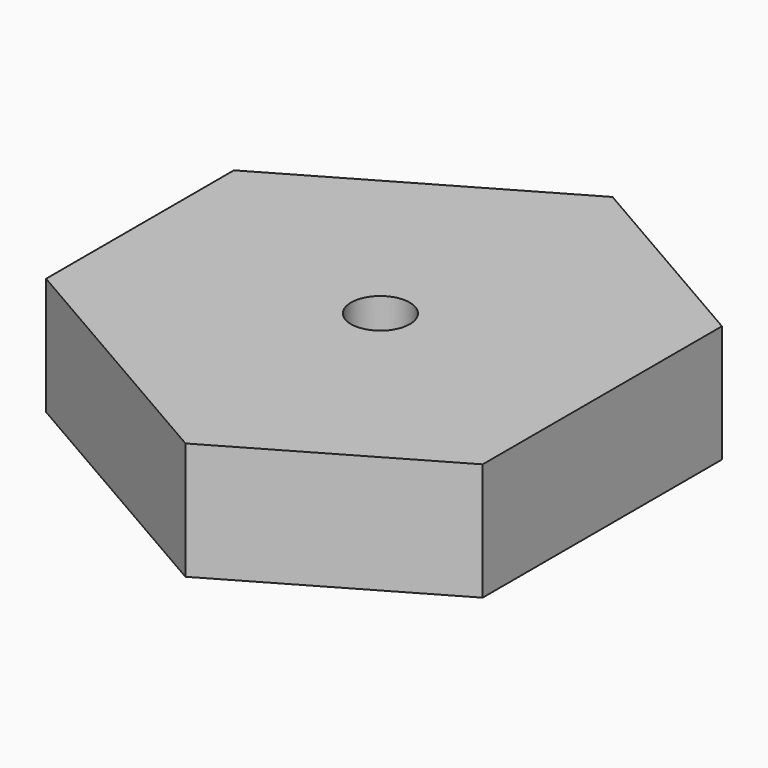
from build123d import *

# Parameters (mm, degrees)
F1_DEPTH = 25.4
F2_D     = 12.7
F3_SIZE  = 50.8


with BuildPart() as f1:
    # F0 (on Top) → F1 (new body)
    with BuildSketch(Plane.XY):
        Polygon((48.011348, -83.158093), (48.011348, 83.158093), (-96.022695, 0), align=None)
    extrude(amount=F1_DEPTH)

    # F2 (through all)
    with Locations(Plane(origin=(0, 0, 0), x_dir=(1, 0, 0), z_dir=(0, 0, -1))):
        with Locations((0, 0)):
            Hole(F2_D / 2)

    # F3
    f3_edges = [f1.edges().sort_by_distance(p)[0] for p in [
        (48.011348, -83.158093, 12.7),
        (48.011348, 83.158093, 12.7),
        (-96.022695, 0, 12.7),
    ]]
    chamfer(f3_edges, length=F3_SIZE)


solid = f1.part
